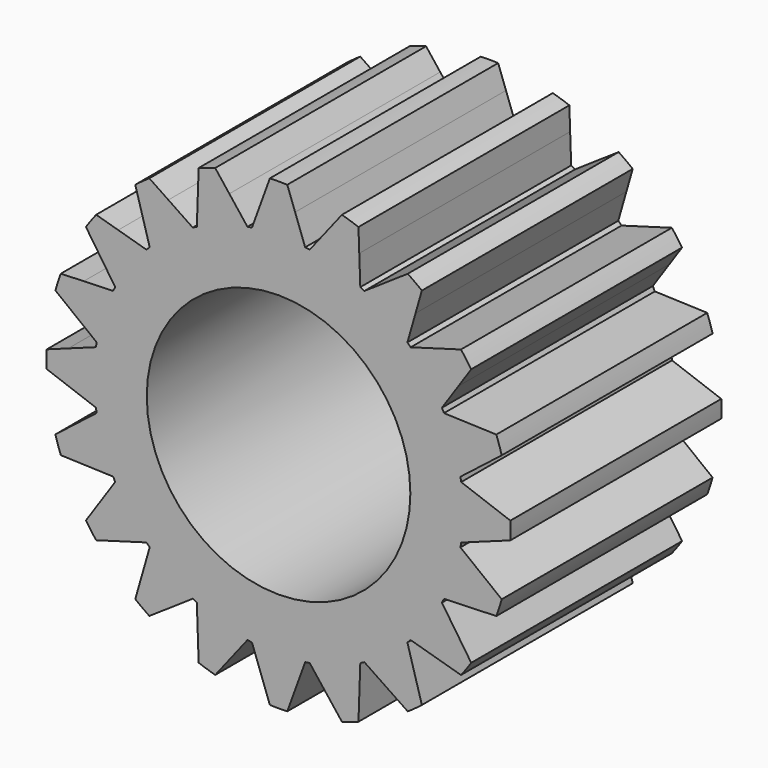
from build123d import *

# Parameters (mm, degrees)
F1_DEPTH = 25
F3_COUNT = 20
F3_ANGLE = 342
F5_R     = 12.5
F6_DEPTH = 53.5


with BuildPart() as f1:
    # F0 (on Front) → F1 (new body)
    with BuildSketch(Plane.XZ):
        with BuildLine():
            ThreePointArc((-2.524062, 17.317018), (-11.447247, -13.236712), (17.5, 0))
            ThreePointArc((17.5, 0), (13.236712, 11.447247), (2.524062, 17.317018))
            ThreePointArc((2.524062, 17.317018), (0, 17.5), (-2.524062, 17.317018))
        make_face()
        with BuildLine():
            ThreePointArc((-2.524062, 17.317018), (0, 17.5), (2.524062, 17.317018))
            Line((2.524062, 17.317018), (1.57, 19.938282))
            Line((1.57, 19.938282), (0.825231, 21.984517))
            ThreePointArc((0.825231, 21.984517), (0, 22), (-0.825231, 21.984517))
            Line((-0.825231, 21.984517), (-2.524062, 17.317018))
        make_face()
    extrude(amount=F1_DEPTH)


with BuildPart() as f3_1:
    # F3: instance of F1
    add(f1.part.rotate(Axis((0, -51.437987, 0), (0, 1, 0)), 1 * F3_ANGLE / (F3_COUNT - 1)))


with BuildPart() as f3_2:
    # F3: instance of F1
    add(f1.part.rotate(Axis((0, -51.437987, 0), (0, 1, 0)), 2 * F3_ANGLE / (F3_COUNT - 1)))


with BuildPart() as f3_3:
    # F3: instance of F1
    add(f1.part.rotate(Axis((0, -51.437987, 0), (0, 1, 0)), 3 * F3_ANGLE / (F3_COUNT - 1)))


with BuildPart() as f3_4:
    # F3: instance of F1
    add(f1.part.rotate(Axis((0, -51.437987, 0), (0, 1, 0)), 4 * F3_ANGLE / (F3_COUNT - 1)))


with BuildPart() as f3_5:
    # F3: instance of F1
    add(f1.part.rotate(Axis((0, -51.437987, 0), (0, 1, 0)), 5 * F3_ANGLE / (F3_COUNT - 1)))


with BuildPart() as f3_6:
    # F3: instance of F1
    add(f1.part.rotate(Axis((0, -51.437987, 0), (0, 1, 0)), 6 * F3_ANGLE / (F3_COUNT - 1)))


with BuildPart() as f3_7:
    # F3: instance of F1
    add(f1.part.rotate(Axis((0, -51.437987, 0), (0, 1, 0)), 7 * F3_ANGLE / (F3_COUNT - 1)))


with BuildPart() as f3_8:
    # F3: instance of F1
    add(f1.part.rotate(Axis((0, -51.437987, 0), (0, 1, 0)), 8 * F3_ANGLE / (F3_COUNT - 1)))


with BuildPart() as f3_9:
    # F3: instance of F1
    add(f1.part.rotate(Axis((0, -51.437987, 0), (0, 1, 0)), 9 * F3_ANGLE / (F3_COUNT - 1)))


with BuildPart() as f3_10:
    # F3: instance of F1
    add(f1.part.rotate(Axis((0, -51.437987, 0), (0, 1, 0)), 10 * F3_ANGLE / (F3_COUNT - 1)))


with BuildPart() as f3_11:
    # F3: instance of F1
    add(f1.part.rotate(Axis((0, -51.437987, 0), (0, 1, 0)), 11 * F3_ANGLE / (F3_COUNT - 1)))


with BuildPart() as f3_12:
    # F3: instance of F1
    add(f1.part.rotate(Axis((0, -51.437987, 0), (0, 1, 0)), 12 * F3_ANGLE / (F3_COUNT - 1)))


with BuildPart() as f3_13:
    # F3: instance of F1
    add(f1.part.rotate(Axis((0, -51.437987, 0), (0, 1, 0)), 13 * F3_ANGLE / (F3_COUNT - 1)))


with BuildPart() as f3_14:
    # F3: instance of F1
    add(f1.part.rotate(Axis((0, -51.437987, 0), (0, 1, 0)), 14 * F3_ANGLE / (F3_COUNT - 1)))


with BuildPart() as f3_15:
    # F3: instance of F1
    add(f1.part.rotate(Axis((0, -51.437987, 0), (0, 1, 0)), 15 * F3_ANGLE / (F3_COUNT - 1)))


with BuildPart() as f3_16:
    # F3: instance of F1
    add(f1.part.rotate(Axis((0, -51.437987, 0), (0, 1, 0)), 16 * F3_ANGLE / (F3_COUNT - 1)))


with BuildPart() as f3_17:
    # F3: instance of F1
    add(f1.part.rotate(Axis((0, -51.437987, 0), (0, 1, 0)), 17 * F3_ANGLE / (F3_COUNT - 1)))


with BuildPart() as f3_18:
    # F3: instance of F1
    add(f1.part.rotate(Axis((0, -51.437987, 0), (0, 1, 0)), 18 * F3_ANGLE / (F3_COUNT - 1)))


with BuildPart() as f3_19:
    # F3: instance of F1
    add(f1.part.rotate(Axis((0, -51.437987, 0), (0, 1, 0)), 19 * F3_ANGLE / (F3_COUNT - 1)))


with BuildPart() as f1_1:
    add(f1.part)

    # F4: union F3_19, F3_3, F3_11, F3_14, F3_5, F3_4, F3_8, F3_6, F3_7, F3_9, F3_10, F3_12, F3_15, F3_18, F3_13, F3_2, F3_16, F3_17, F3_1
    add(f3_19.part)
    add(f3_3.part)
    add(f3_11.part)
    add(f3_14.part)
    add(f3_5.part)
    add(f3_4.part)
    add(f3_8.part)
    add(f3_6.part)
    add(f3_7.part)
    add(f3_9.part)
    add(f3_10.part)
    add(f3_12.part)
    add(f3_15.part)
    add(f3_18.part)
    add(f3_13.part)
    add(f3_2.part)
    add(f3_16.part)
    add(f3_17.part)
    add(f3_1.part)

    # F5 (on face) → F6 (cut)
    with BuildSketch(Plane.XZ.offset(25)):
        Circle(F5_R)
    extrude(amount=-F6_DEPTH, mode=Mode.SUBTRACT)


solid = f1_1.part
